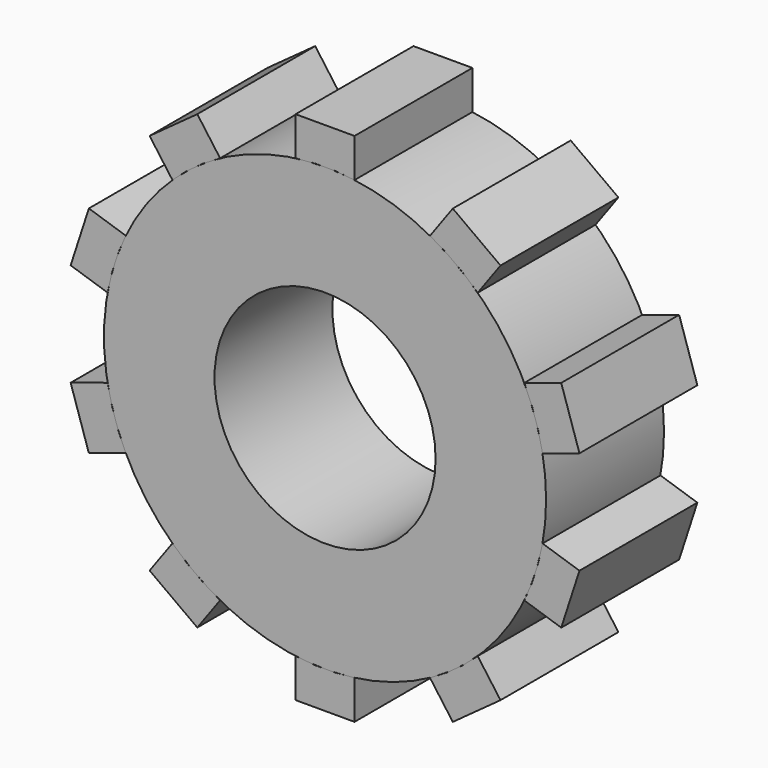
from build123d import *

# Parameters (mm, degrees)
F0_R     = 38.1
F0_R_2   = 19.05
F1_DEPTH = 12.7
F3_DEPTH = 12.7
F4_COUNT = 10


with BuildPart() as f1:
    # F0 (on Front) → F1 (new body, symmetric)
    with BuildSketch(Plane.XZ):
        Circle(F0_R)
        Circle(F0_R_2, mode=Mode.SUBTRACT)
    extrude(amount=F1_DEPTH, both=True)


with BuildPart() as f3:
    # F2 (on Front) → F3 (new body, symmetric)
    with BuildSketch(Plane.XZ):
        with BuildLine():
            ThreePointArc((-5.08, 37.759815), (0, 38.1), (5.08, 37.759815))
            Line((5.08, 37.759815), (5.08, 44.45))
            Line((5.08, 44.45), (-5.08, 44.45))
            Line((-5.08, 44.45), (-5.08, 37.759815))
        make_face()
    extrude(amount=F3_DEPTH, both=True)


with BuildPart() as f4_1:
    # F4: instance of F3
    add(f3.part.rotate(Axis((0, 0, 0), (0, 1, 0)), 1 * 360 / F4_COUNT))


with BuildPart() as f4_2:
    # F4: instance of F3
    add(f3.part.rotate(Axis((0, 0, 0), (0, 1, 0)), 2 * 360 / F4_COUNT))


with BuildPart() as f4_3:
    # F4: instance of F3
    add(f3.part.rotate(Axis((0, 0, 0), (0, 1, 0)), 3 * 360 / F4_COUNT))


with BuildPart() as f4_4:
    # F4: instance of F3
    add(f3.part.rotate(Axis((0, 0, 0), (0, 1, 0)), 4 * 360 / F4_COUNT))


with BuildPart() as f4_5:
    # F4: instance of F3
    add(f3.part.rotate(Axis((0, 0, 0), (0, 1, 0)), 5 * 360 / F4_COUNT))


with BuildPart() as f4_6:
    # F4: instance of F3
    add(f3.part.rotate(Axis((0, 0, 0), (0, 1, 0)), 6 * 360 / F4_COUNT))


with BuildPart() as f4_7:
    # F4: instance of F3
    add(f3.part.rotate(Axis((0, 0, 0), (0, 1, 0)), 7 * 360 / F4_COUNT))


with BuildPart() as f4_8:
    # F4: instance of F3
    add(f3.part.rotate(Axis((0, 0, 0), (0, 1, 0)), 8 * 360 / F4_COUNT))


with BuildPart() as f4_9:
    # F4: instance of F3
    add(f3.part.rotate(Axis((0, 0, 0), (0, 1, 0)), 9 * 360 / F4_COUNT))


solid = Compound([f1.part, f3.part, f4_1.part, f4_2.part, f4_3.part, f4_4.part, f4_5.part, f4_6.part, f4_7.part, f4_8.part, f4_9.part])
